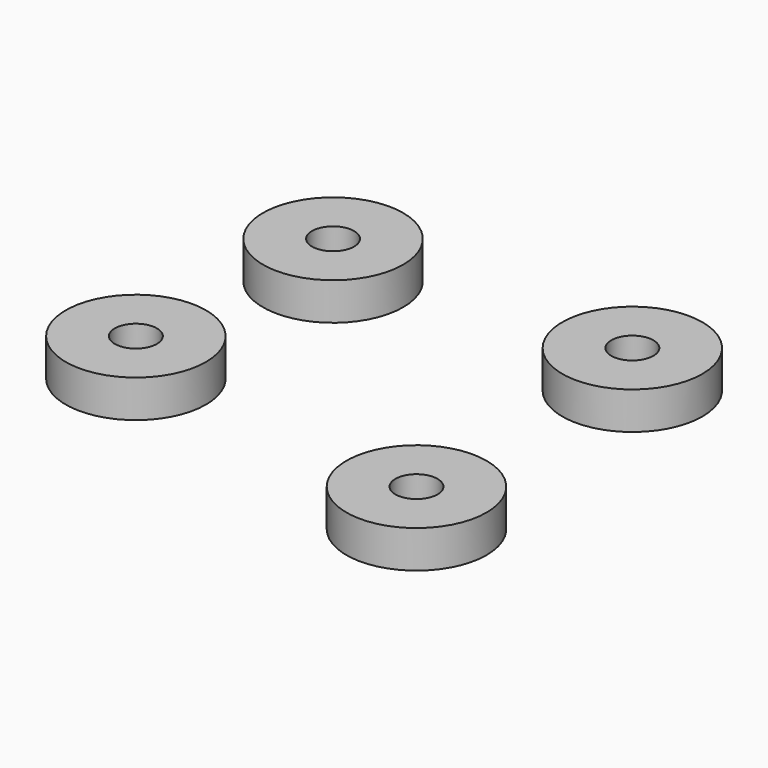
from build123d import *

# Parameters (mm, degrees)
F0_R     = 11.8745
F0_R_2   = 3.5687
F0_R_3   = 11.870015
F1_DEPTH = 6.35


with BuildPart() as f1:
    # F0 (on Top) → F1 (new body)
    with BuildSketch(Plane.XY):
        with Locations((-38.400818, 32.154155)):
            Circle(F0_R)
        with Locations((-38.400818, 32.154155)):
            Circle(F0_R_2, mode=Mode.SUBTRACT)
        with Locations((12.060441, 32.44925)):
            Circle(F0_R_3)
        with Locations((12.060441, 32.44925)):
            Circle(F0_R_2, mode=Mode.SUBTRACT)
        with Locations((14.56875, -16.388991)):
            Circle(F0_R)
        with Locations((14.56875, -16.388991)):
            Circle(F0_R_2, mode=Mode.SUBTRACT)
        with Locations((-41.351772, -5.913114)):
            Circle(F0_R)
        with Locations((-41.351772, -5.913114)):
            Circle(F0_R_2, mode=Mode.SUBTRACT)
    extrude(amount=F1_DEPTH)


solid = f1.part
